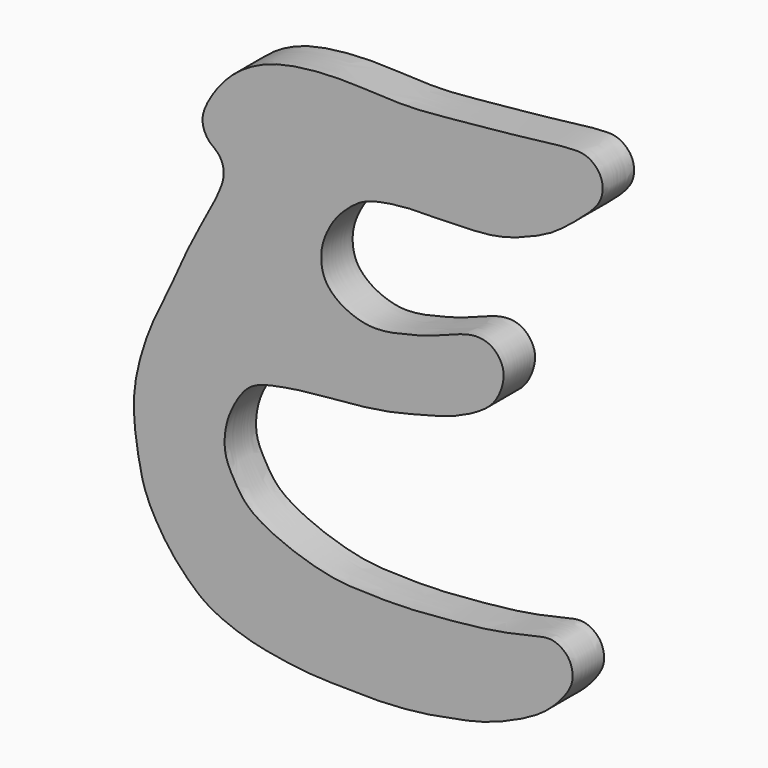
from build123d import *

# Parameters (mm, degrees)
F1_DEPTH = 1.27


with BuildPart() as f1:
    # F0 (on Front) → F1 (new body)
    with BuildSketch(Plane.XZ):
        with BuildLine():
            add(Edge.make_bspline(
                [(-47.2401604219, 22.965567747), (-47.6550940449, 22.967268888), (-49.1996426348, 22.744588865), (-50.8165627655, 22.6166768439), (-52.6997228806, 22.3929831832), (-54.4554778296, 22.5488516689), (-55.9124942793, 22.492003585), (-57.2452184538, 22.2455506861), (-58.3396950133, 21.5884368011), (-58.9794783621, 20.7901330569), (-59.3274150514, 20.1071452495), (-59.2888155766, 19.6846277549), (-59.1210802751, 19.3881320898), (-58.9252947762, 19.2460715324), (-58.739519486, 19.0789668749), (-58.6005636835, 18.7689413805), (-58.6126669392, 18.3064716014), (-59.1485165008, 17.265951194), (-59.7394217449, 16.2123647993), (-60.2956400074, 14.8811364162), (-61.0514328173, 13.4402105211), (-61.5331717594, 11.7781862896), (-61.524042629, 10.6206386432), (-61.3732034884, 9.6597098807), (-61.1977139156, 8.7808321934), (-60.7667067221, 7.941983313), (-60.2824792843, 7.2270384536), (-59.6911340788, 6.6041314818), (-59.0556101101, 6.0648364311), (-57.8748236814, 5.6103764721), (-56.919364948, 5.4260787156), (-55.7257202599, 5.2584732766), (-54.6948031123, 5.2643738853), (-53.6232591992, 5.2203333998), (-52.3153656395, 5.3193524267), (-51.4424331326, 5.4739164491), (-50.2757226739, 5.693121726), (-49.2749235776, 6.0873924385), (-48.3388065182, 6.5631767408), (-47.743365256, 7.1363872512), (-47.3948503483, 7.6246321721), (-47.3124657003, 8.00719989), (-47.4190369849, 8.4003548189), (-47.6045889223, 8.6108799127), (-47.815752145, 8.7429631121), (-48.0723819233, 8.8252285482), (-48.5125353115, 8.7559860544), (-49.2489380992, 8.5646347101), (-49.9418121568, 8.4368849289), (-50.7166856337, 8.3393618918), (-51.6406696827, 8.2543843725), (-52.8040421836, 8.1598539114), (-53.8327144056, 8.1755770387), (-54.8764201903, 8.1999204351), (-55.9116318926, 8.4403379694), (-56.9219197938, 8.8117490615), (-57.8775968725, 9.3352016499), (-58.2816508556, 10.0097801885), (-58.6310371533, 10.6442808232), (-58.5642794303, 11.54792171), (-58.2590224417, 12.2262749591), (-57.7989041542, 12.9134341261), (-56.9051323837, 13.135540297), (-55.7677088758, 13.3060381934), (-54.6267527811, 13.3808385125), (-53.3219126061, 13.5356735396), (-52.221980277, 13.830335631), (-51.1882609522, 14.0865904757), (-50.2931795256, 14.5503924608), (-49.8258530206, 14.9484136319), (-49.557052845, 15.5801333943), (-49.5665344161, 16.0923765285), (-49.9136293744, 16.550312614), (-50.4672593335, 16.6874180948), (-51.1297244523, 16.4878145383), (-51.8666038771, 16.1783373535), (-52.7551301508, 15.9300351496), (-53.7386170844, 15.7361198747), (-54.4427879462, 15.9156736411), (-54.9609744646, 16.1811584239), (-55.3673547748, 16.6032751906), (-55.488846953, 17.1425810354), (-55.4437411257, 17.6854219707), (-55.1849924129, 18.245990696), (-54.9119286211, 18.6404232905), (-54.5236472846, 19.0067209529), (-54.1093771162, 19.3102017874), (-53.4462138986, 19.486375254), (-52.5601240188, 19.5852503216), (-51.7475571011, 19.5694187958), (-50.9079169168, 19.6063961484), (-50.3434457394, 19.6187727997), (-49.6665684101, 19.701840093), (-49.0141695988, 19.9087737006), (-48.0763209465, 20.299519068), (-47.4762400406, 20.768914873), (-46.8999536308, 21.2402174547), (-46.4608009767, 21.7021273127), (-46.359885745, 22.0870737508), (-46.3876388372, 22.4027525541), (-46.5307234388, 22.6790533403), (-46.8255563751, 22.9130172771), (-47.040702912, 22.964750013), (-47.2401604219, 22.965567747)],
                knots=[0, 0, 0, 0, 0.0151177527, 0.0297297209, 0.0448063075, 0.0595068825, 0.0728178993, 0.0855938242, 0.0979396699, 0.1091462591, 0.1186112683, 0.1255759615, 0.1318461663, 0.1372198497, 0.1426655115, 0.1488627774, 0.1561390734, 0.1679241001, 0.1802940746, 0.1934591679, 0.2077021, 0.2221806397, 0.234008902, 0.2447873293, 0.2552134276, 0.2658772205, 0.276172545, 0.2862743236, 0.2963796141, 0.3086325245, 0.3197167024, 0.3317283953, 0.3429392166, 0.354450325, 0.3669985586, 0.3775185495, 0.3894069542, 0.4009901062, 0.4122668547, 0.4223103265, 0.4307103002, 0.4374807014, 0.4443641929, 0.4501522613, 0.4555631956, 0.4611104275, 0.4683805553, 0.478056234, 0.4874059877, 0.4970619653, 0.5077509331, 0.5196946401, 0.5309541595, 0.5421746297, 0.5535174741, 0.5650807489, 0.5764619945, 0.5860958136, 0.5953690392, 0.6056286964, 0.6152309731, 0.6249098325, 0.6352713739, 0.6471348167, 0.6590439005, 0.6716743164, 0.6834876052, 0.6949485685, 0.7059192264, 0.7145188629, 0.7234356165, 0.7311938477, 0.7391849753, 0.7472234307, 0.7562950833, 0.766186719, 0.7768934869, 0.7879146179, 0.7971982997, 0.8055532759, 0.8138255757, 0.8218713677, 0.8299998661, 0.8385966371, 0.846279259, 0.8542503525, 0.8620837643, 0.8711528403, 0.881593514, 0.8916992193, 0.9017298782, 0.9100780289, 0.9190024818, 0.9282575033, 0.9393188651, 0.9490395875, 0.9585939913, 0.9673264565, 0.9741093789, 0.9801903415, 0.9862672684, 0.9927329357, 1, 1, 1, 1], degree=3))
        make_face()
    extrude(amount=F1_DEPTH)


solid = f1.part
